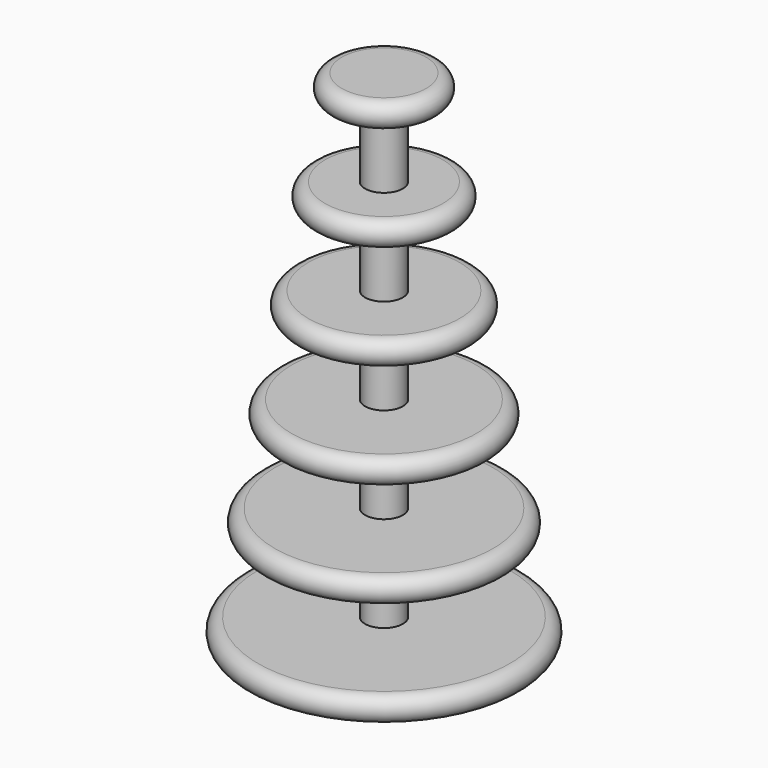
from build123d import *

# Parameters (mm, degrees)
F2_R     = 7.5
F3_DEPTH = 200


with BuildPart() as f1:
    # F0 (on Front) → F1 (revolve)
    with BuildSketch(Plane.XZ):
        with BuildLine():
            ThreePointArc((-30.05, 24), (-35.05, 19), (-30.05, 14))
            Line((-30.05, 14), (0, 14))
            Line((0, 14), (0, 24))
            Line((0, 24), (-28.3, 24))
            Line((-28.3, 24), (-30.05, 24))
        make_face()
        with BuildLine():
            Line((0, -52), (-41.6, -52))
            Line((-41.6, -52), (-43.35, -52))
            ThreePointArc((-43.35, -52), (-48.35, -57), (-43.35, -62))
            Line((-43.35, -62), (0, -62))
            Line((0, -62), (0, -52))
        make_face()
        with BuildLine():
            ThreePointArc((-50, -90), (-55, -95), (-50, -100))
            Line((-50, -100), (0, -100))
            Line((0, -100), (0, -90))
            Line((0, -90), (-50, -90))
        make_face()
        with BuildLine():
            ThreePointArc((-16.75, 100), (-21.75, 95), (-16.75, 90))
            Line((-16.75, 90), (0, 90))
            Line((0, 90), (0, 100))
            Line((0, 100), (-15, 100))
            Line((-15, 100), (-16.75, 100))
        make_face()
        with BuildLine():
            Line((0, -14), (-34.95, -14))
            Line((-34.95, -14), (-36.7, -14))
            ThreePointArc((-36.7, -14), (-41.7, -19), (-36.7, -24))
            Line((-36.7, -24), (0, -24))
            Line((0, -24), (0, -14))
        make_face()
        with BuildLine():
            ThreePointArc((-23.4, 62), (-28.4, 57), (-23.4, 52))
            Line((-23.4, 52), (0, 52))
            Line((0, 52), (0, 62))
            Line((0, 62), (-21.65, 62))
            Line((-21.65, 62), (-23.4, 62))
        make_face()
    revolve(axis=Axis((0, 0, 158.39728), (0, 0, 1)))

    # F2 (on face) → F3 (join, through all)
    with BuildSketch(Plane.XY.offset(100)):
        Circle(F2_R)
    extrude(amount=-F3_DEPTH)


solid = f1.part
